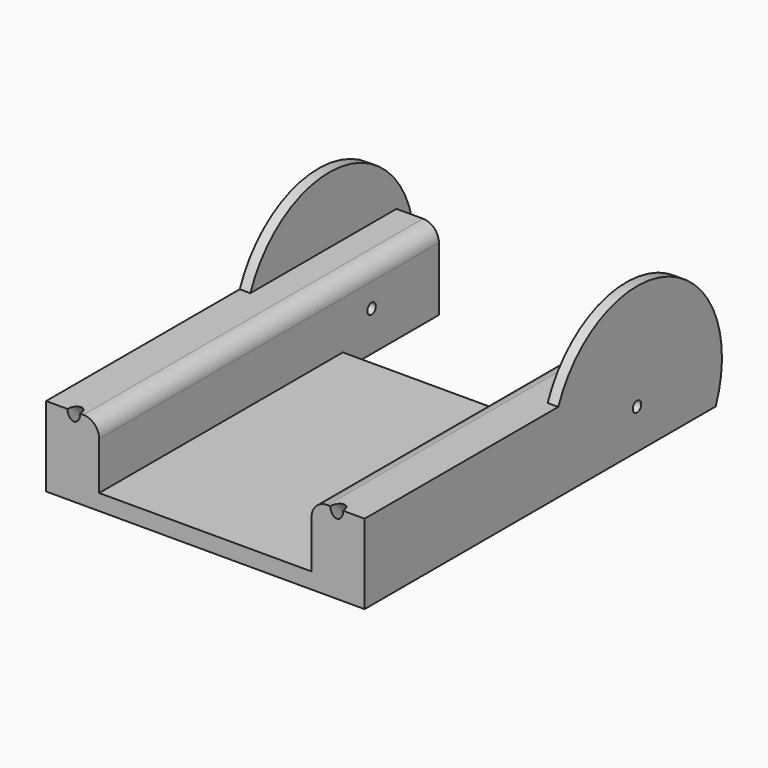
from build123d import *

# Parameters (mm, degrees)
F3_DEPTH      = 15
F3_DEPTH_BACK = 65
F4_R          = 1.2
F5_DEPTH      = 124.25
F5_DEPTH_BACK = 109.5
F6_R          = 20
F8_DEPTH      = 2
F7_R          = 20
F9_DEPTH      = 2
F10_W         = 125.272244215
F10_H         = 20.9059882909
F11_DEPTH     = 40
F12_W         = 40
F12_H         = 22.6302481089
F13_DEPTH     = 10
F14_R         = 1
F15_DEPTH     = 50


with BuildPart() as f3:
    # F2 (on Front) → F3 (new body, two sides)
    with BuildSketch(Plane.XZ) as f3_sk:
        with BuildLine():
            Line((-30, 15), (-30, 0))
            Line((-30, 0), (30, 0))
            Line((30, 0), (30, 15))
            Line((30, 15), (23, 15))
            ThreePointArc((23, 15), (20.8786796564, 14.1213203436), (20, 12))
            Line((20, 12), (20, 3))
            Line((20, 3), (-20, 3))
            Line((-20, 3), (-20, 12))
            ThreePointArc((-20, 12), (-20.8786796564, 14.1213203436), (-23, 15))
            Line((-23, 15), (-30, 15))
        make_face()
    extrude(amount=F3_DEPTH)
    extrude(f3_sk.sketch, amount=-F3_DEPTH_BACK)

    # F4 (on face) → F5 (cut, two sides)
    with BuildSketch(Plane(origin=(0, 0, 0), x_dir=(1, 0, 0), z_dir=(0, -0.7071067812, 0.7071067812))) as f5_sk:
        with BuildLine():
            ThreePointArc((25.965, 0), (24.765, 1.2), (23.565, 0))
            ThreePointArc((23.565, 0), (24.765, -1.2), (25.965, 0))
        make_face()
        with Locations((-24.765, 0)):
            Circle(F4_R)
    extrude(amount=F5_DEPTH, mode=Mode.SUBTRACT)
    extrude(f5_sk.sketch, amount=-F5_DEPTH_BACK, mode=Mode.SUBTRACT)

    # F6 (on face) → F8 (join)
    with BuildSketch(Plane.YZ.offset(30)):
        with Locations((49.14, 7.5)):
            Circle(F6_R)
    extrude(amount=-F8_DEPTH)

    # F7 (on face) → F9 (join)
    with BuildSketch(Plane(origin=(-30, 0, 0), x_dir=(0, -1, 0), z_dir=(-1, 0, 0))):
        with Locations((-49.14, 7.5)):
            Circle(F7_R)
    extrude(amount=-F9_DEPTH)

    # F10 (on Right) → F11 (cut, symmetric)
    with BuildSketch(Plane.YZ):
        with Locations((62.6361221075, -10.4529941455)):
            Rectangle(F10_W, F10_H)
    extrude(amount=F11_DEPTH, both=True, mode=Mode.SUBTRACT)

    # F12 (on Top) → F13 (cut)
    with BuildSketch(Plane.XY):
        with Locations((0, 53.6848759456)):
            Rectangle(F12_W, F12_H)
    extrude(amount=F13_DEPTH, mode=Mode.SUBTRACT)

    # F14 (on Right) → F15 (cut, symmetric)
    with BuildSketch(Plane.YZ):
        with Locations((49.14, 7.5)):
            Circle(F14_R)
    extrude(amount=F15_DEPTH, both=True, mode=Mode.SUBTRACT)


solid = f3.part
